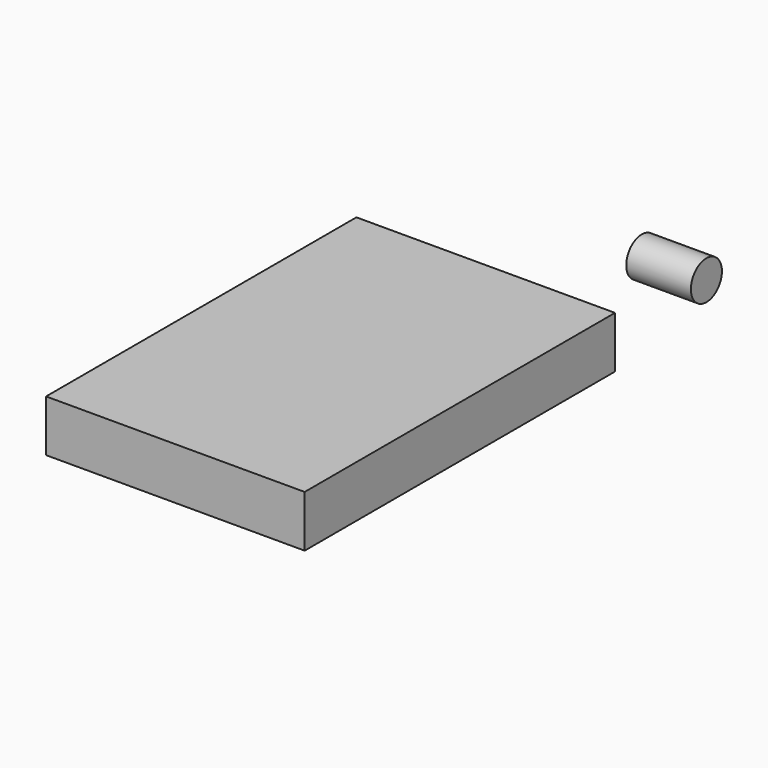
from build123d import *

# Parameters (mm, degrees)
F1_W     = 100
F1_H     = 150
F2_DEPTH = 20
F3_R     = 7.5
F4_DEPTH = 25


with BuildPart() as f2:
    # F1 (on face) → F2 (new body)
    with BuildSketch(Plane.XY):
        with Locations((-47.687165, -32.988287)):
            Rectangle(F1_W, F1_H)
    extrude(amount=F2_DEPTH)


with BuildPart() as f4:
    # F3 (on Right) → F4 (new body)
    with BuildSketch(Plane.YZ):
        with Locations((57.851366, 32.050416)):
            Circle(F3_R)
    extrude(amount=F4_DEPTH)


solid = Compound([f2.part, f4.part])
